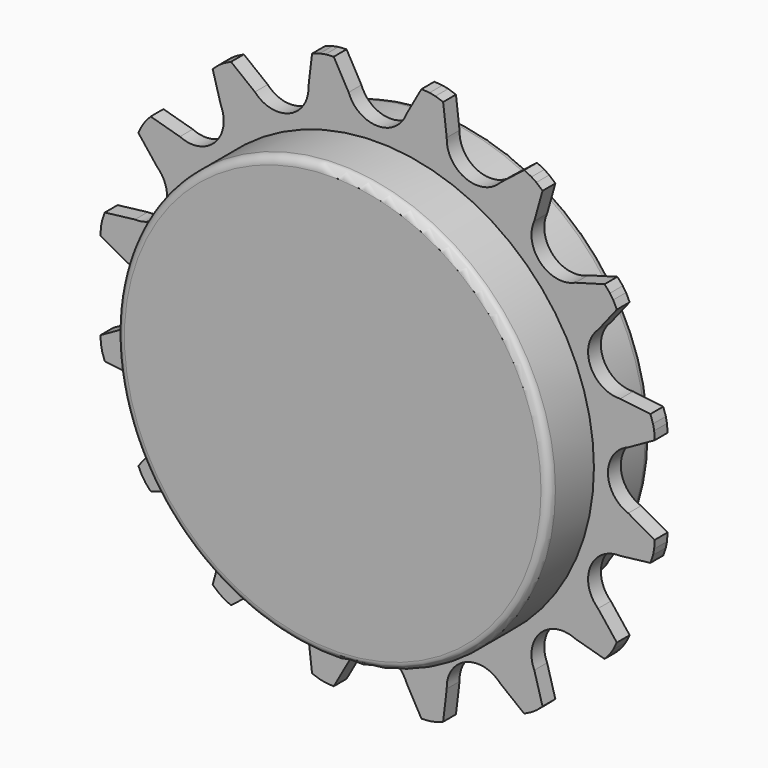
from build123d import *

# Parameters (mm, degrees)
F0_R     = 27
F1_DEPTH = 1
F2_DEPTH = 8
F3_R     = 1


with BuildPart() as f1:
    # F0 (on Front) → F1 (new body, symmetric)
    with BuildSketch(Plane.XZ):
        with BuildLine():
            ThreePointArc((3.615878, 31.277909), (0, 28.75), (-3.615878, 31.277909))
            Line((-3.615878, 31.277909), (-5.473482, 34.585241))
            ThreePointArc((-5.473482, 34.585241), (-5.982768, 34.553119), (-6.491866, 34.518142))
            Line((-6.491866, 34.518142), (-7.211819, 34.374935))
            ThreePointArc((-7.211819, 34.374935), (-7.695549, 34.212426), (-8.17836, 34.047207))
            Line((-8.17836, 34.047207), (-8.628902, 30.280757))
            ThreePointArc((-8.628902, 30.280757), (-11.002149, 26.561537), (-15.310173, 27.513283))
            Line((-15.310173, 27.513283), (-18.292037, 29.857985))
            ThreePointArc((-18.292037, 29.857985), (-18.750263, 29.633414), (-19.207223, 29.406276))
            Line((-19.207223, 29.406276), (-19.81757, 28.998455))
            ThreePointArc((-19.81757, 28.998455), (-20.202289, 28.663201), (-20.585122, 28.325795))
            Line((-20.585122, 28.325795), (-19.56001, 24.673634))
            ThreePointArc((-19.56001, 24.673634), (-20.32932, 20.32932), (-24.673634, 19.56001))
            Line((-24.673634, 19.56001), (-28.325795, 20.585122))
            ThreePointArc((-28.325795, 20.585122), (-28.663201, 20.202289), (-28.998455, 19.81757))
            Line((-28.998455, 19.81757), (-29.406276, 19.207223))
            ThreePointArc((-29.406276, 19.207223), (-29.633414, 18.750263), (-29.857985, 18.292037))
            Line((-29.857985, 18.292037), (-27.513283, 15.310173))
            ThreePointArc((-27.513283, 15.310173), (-26.561537, 11.002149), (-30.280757, 8.628902))
            Line((-30.280757, 8.628902), (-34.047207, 8.17836))
            ThreePointArc((-34.047207, 8.17836), (-34.212426, 7.695549), (-34.374935, 7.211819))
            Line((-34.374935, 7.211819), (-34.518142, 6.491866))
            ThreePointArc((-34.518142, 6.491866), (-34.553119, 5.982768), (-34.585241, 5.473482))
            Line((-34.585241, 5.473482), (-31.277909, 3.615878))
            ThreePointArc((-31.277909, 3.615878), (-28.75, 0), (-31.277909, -3.615878))
            Line((-31.277909, -3.615878), (-34.585241, -5.473482))
            ThreePointArc((-34.585241, -5.473482), (-34.553119, -5.982768), (-34.518142, -6.491866))
            Line((-34.518142, -6.491866), (-34.374935, -7.211819))
            ThreePointArc((-34.374935, -7.211819), (-34.212426, -7.695549), (-34.047207, -8.17836))
            Line((-34.047207, -8.17836), (-30.280757, -8.628902))
            ThreePointArc((-30.280757, -8.628902), (-26.561537, -11.002149), (-27.513283, -15.310173))
            Line((-27.513283, -15.310173), (-29.857985, -18.292037))
            ThreePointArc((-29.857985, -18.292037), (-29.633414, -18.750263), (-29.406276, -19.207223))
            Line((-29.406276, -19.207223), (-28.998455, -19.81757))
            ThreePointArc((-28.998455, -19.81757), (-28.663201, -20.202289), (-28.325795, -20.585122))
            Line((-28.325795, -20.585122), (-24.673634, -19.56001))
            ThreePointArc((-24.673634, -19.56001), (-20.32932, -20.32932), (-19.56001, -24.673634))
            Line((-19.56001, -24.673634), (-20.585122, -28.325795))
            ThreePointArc((-20.585122, -28.325795), (-20.202289, -28.663201), (-19.81757, -28.998455))
            Line((-19.81757, -28.998455), (-19.207223, -29.406276))
            ThreePointArc((-19.207223, -29.406276), (-18.750263, -29.633414), (-18.292037, -29.857985))
            Line((-18.292037, -29.857985), (-15.310173, -27.513283))
            ThreePointArc((-15.310173, -27.513283), (-11.002149, -26.561537), (-8.628902, -30.280757))
            Line((-8.628902, -30.280757), (-8.17836, -34.047207))
            ThreePointArc((-8.17836, -34.047207), (-7.695549, -34.212426), (-7.211819, -34.374935))
            Line((-7.211819, -34.374935), (-6.491866, -34.518142))
            ThreePointArc((-6.491866, -34.518142), (-5.982768, -34.553119), (-5.473482, -34.585241))
            Line((-5.473482, -34.585241), (-3.615878, -31.277909))
            ThreePointArc((-3.615878, -31.277909), (0, -28.75), (3.615878, -31.277909))
            Line((3.615878, -31.277909), (5.473482, -34.585241))
            ThreePointArc((5.473482, -34.585241), (5.982768, -34.553119), (6.491866, -34.518142))
            Line((6.491866, -34.518142), (7.211819, -34.374935))
            ThreePointArc((7.211819, -34.374935), (7.695549, -34.212426), (8.17836, -34.047207))
            Line((8.17836, -34.047207), (8.628902, -30.280757))
            ThreePointArc((8.628902, -30.280757), (11.002149, -26.561537), (15.310173, -27.513283))
            Line((15.310173, -27.513283), (18.292037, -29.857985))
            ThreePointArc((18.292037, -29.857985), (18.750263, -29.633414), (19.207223, -29.406276))
            Line((19.207223, -29.406276), (19.81757, -28.998455))
            ThreePointArc((19.81757, -28.998455), (20.202289, -28.663201), (20.585122, -28.325795))
            Line((20.585122, -28.325795), (19.56001, -24.673634))
            ThreePointArc((19.56001, -24.673634), (20.32932, -20.32932), (24.673634, -19.56001))
            Line((24.673634, -19.56001), (28.325795, -20.585122))
            ThreePointArc((28.325795, -20.585122), (28.663201, -20.202289), (28.998455, -19.81757))
            Line((28.998455, -19.81757), (29.406276, -19.207223))
            ThreePointArc((29.406276, -19.207223), (29.633414, -18.750263), (29.857985, -18.292037))
            Line((29.857985, -18.292037), (27.513283, -15.310173))
            ThreePointArc((27.513283, -15.310173), (26.561537, -11.002149), (30.280757, -8.628902))
            Line((30.280757, -8.628902), (34.047207, -8.17836))
            ThreePointArc((34.047207, -8.17836), (34.212426, -7.695549), (34.374935, -7.211819))
            Line((34.374935, -7.211819), (34.518142, -6.491866))
            ThreePointArc((34.518142, -6.491866), (34.553119, -5.982768), (34.585241, -5.473482))
            Line((34.585241, -5.473482), (31.277909, -3.615878))
            ThreePointArc((31.277909, -3.615878), (28.75, 0), (31.277909, 3.615878))
            Line((31.277909, 3.615878), (34.585241, 5.473482))
            ThreePointArc((34.585241, 5.473482), (34.553119, 5.982768), (34.518142, 6.491866))
            Line((34.518142, 6.491866), (34.374935, 7.211819))
            ThreePointArc((34.374935, 7.211819), (34.212426, 7.695549), (34.047207, 8.17836))
            Line((34.047207, 8.17836), (30.280757, 8.628902))
            ThreePointArc((30.280757, 8.628902), (26.561537, 11.002149), (27.513283, 15.310173))
            Line((27.513283, 15.310173), (29.857985, 18.292037))
            ThreePointArc((29.857985, 18.292037), (29.633414, 18.750263), (29.406276, 19.207223))
            Line((29.406276, 19.207223), (28.998455, 19.81757))
            ThreePointArc((28.998455, 19.81757), (28.663201, 20.202289), (28.325795, 20.585122))
            Line((28.325795, 20.585122), (24.673634, 19.56001))
            ThreePointArc((24.673634, 19.56001), (20.32932, 20.32932), (19.56001, 24.673634))
            Line((19.56001, 24.673634), (20.585122, 28.325795))
            ThreePointArc((20.585122, 28.325795), (20.202289, 28.663201), (19.81757, 28.998455))
            Line((19.81757, 28.998455), (19.207223, 29.406276))
            ThreePointArc((19.207223, 29.406276), (18.750263, 29.633414), (18.292037, 29.857985))
            Line((18.292037, 29.857985), (15.310173, 27.513283))
            ThreePointArc((15.310173, 27.513283), (11.002149, 26.561537), (8.628902, 30.280757))
            Line((8.628902, 30.280757), (8.17836, 34.047207))
            ThreePointArc((8.17836, 34.047207), (7.695549, 34.212426), (7.211819, 34.374935))
            Line((7.211819, 34.374935), (6.491866, 34.518142))
            ThreePointArc((6.491866, 34.518142), (5.982768, 34.553119), (5.473482, 34.585241))
            Line((5.473482, 34.585241), (3.615878, 31.277909))
        make_face()
        Circle(F0_R, mode=Mode.SUBTRACT)
    extrude(amount=F1_DEPTH, both=True)

    # F0 (on Front) → F2 (join, symmetric)
    with BuildSketch(Plane.XZ):
        Circle(F0_R)
    extrude(amount=F2_DEPTH, both=True)

    # F3
    f3_edges = [f1.edges().sort_by_distance(p)[0] for p in [
        (-27, -8, 0),
        (-27, 8, 0),
    ]]
    fillet(f3_edges, radius=F3_R)


solid = f1.part
